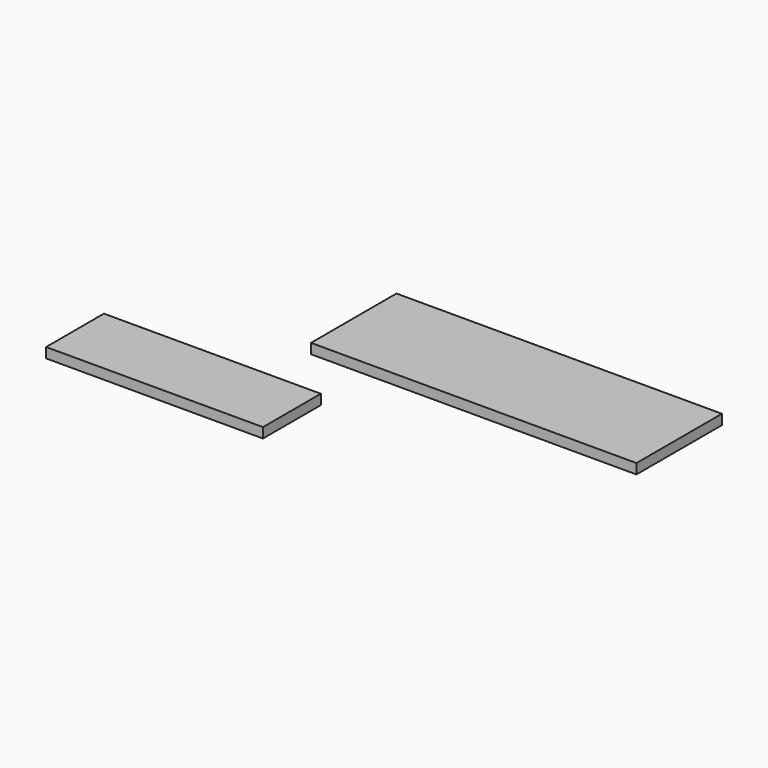
from build123d import *

# Parameters (mm, degrees)
F0_W     = 518
F0_H     = 170
F2_DEPTH = 16
F0_W_2   = 345.1779484749
F0_H_2   = 115.0593012571


with BuildPart() as f2:
    # F0 (on Top) → F2 (new body)
    with BuildSketch(Plane.XY):
        with Locations((-125.2768669128, 398.7320280075)):
            Rectangle(F0_W, F0_H)
    extrude(amount=F2_DEPTH)


with BuildPart() as f2b:
    # F0 (on Top) → F2, piece 2 (new body)
    with BuildSketch(Plane.XY):
        with Locations((-461.7584347725, 156.8706035614)):
            Rectangle(F0_W_2, F0_H_2)
    extrude(amount=F2_DEPTH)


solid = Compound([f2.part, f2b.part])
